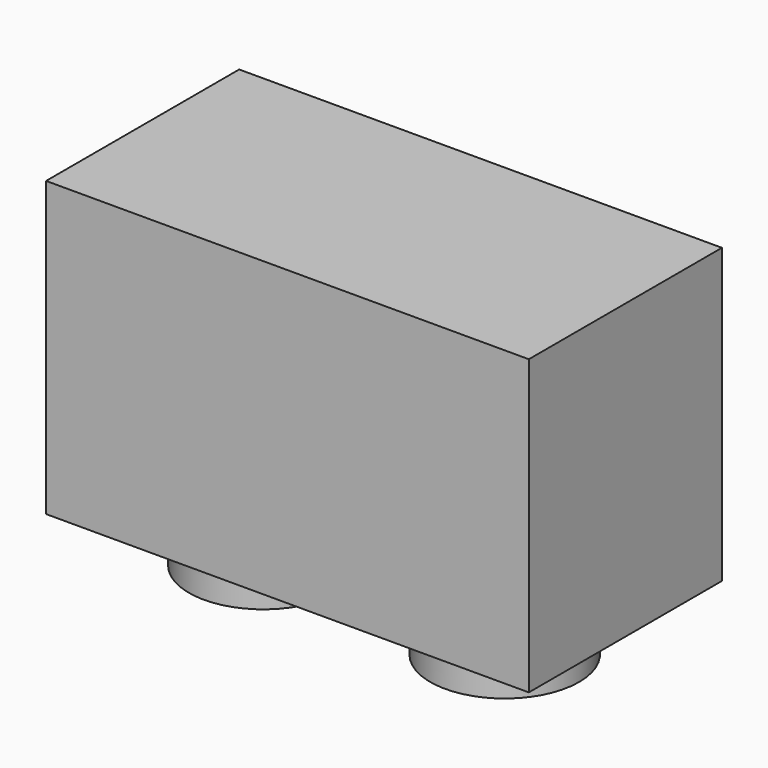
from build123d import *

# Parameters (mm, degrees)
F0_W     = 15.8
F0_H     = 7.9
F1_DEPTH = 9.6
F2_R     = 2.435
F3_DEPTH = 11.4


with BuildPart() as f1:
    # F0 (on Top) → F1 (new body)
    with BuildSketch(Plane.XY):
        Rectangle(F0_W, F0_H)
    extrude(amount=F1_DEPTH)

    # F2 (on face) → F3 (join)
    with BuildSketch(Plane.XY.offset(9.6)):
        with Locations((-3.95, 0)):
            Circle(F2_R)
        with Locations((3.95, 0)):
            Circle(F2_R)
    extrude(amount=-F3_DEPTH)


solid = f1.part
